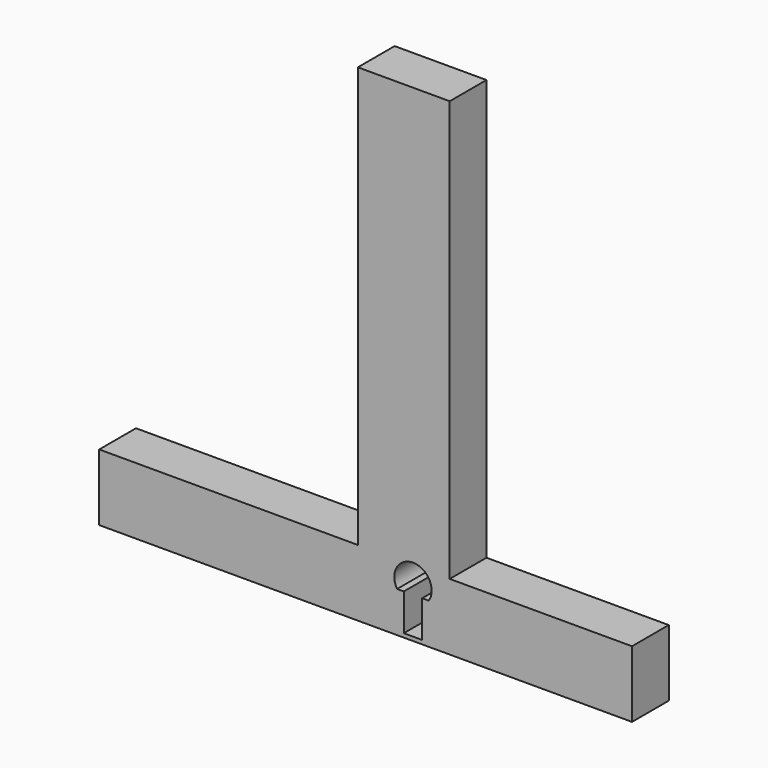
from build123d import *

# Parameters (mm, degrees)
F1_DEPTH = 6.25


with BuildPart() as f1:
    # F0 (on Front) → F1 (new body, symmetric)
    with BuildSketch(Plane.XZ):
        Polygon((72.5, -9.064749), (72.5, 9.064749), (22.888701, 9.064749), (22.888701, 123.519985), (-2.111299, 123.519985), (-2.111299, 9.064749), (-72.5, 9.064749), (-72.5, -9.064749), align=None)
        with BuildLine():
            Line((10.388701, 1.997165), (8.559674, 1.997165))
            ThreePointArc((8.559674, 1.997165), (12.888701, 9.723112), (17.217728, 1.997165))
            Line((17.217728, 1.997165), (15.388701, 1.997165))
            Line((15.388701, 1.997165), (15.388701, -8.002835))
            Line((15.388701, -8.002835), (10.388701, -8.002835))
            Line((10.388701, -8.002835), (10.388701, 1.997165))
        make_face(mode=Mode.SUBTRACT)
    extrude(amount=F1_DEPTH, both=True)


solid = f1.part
